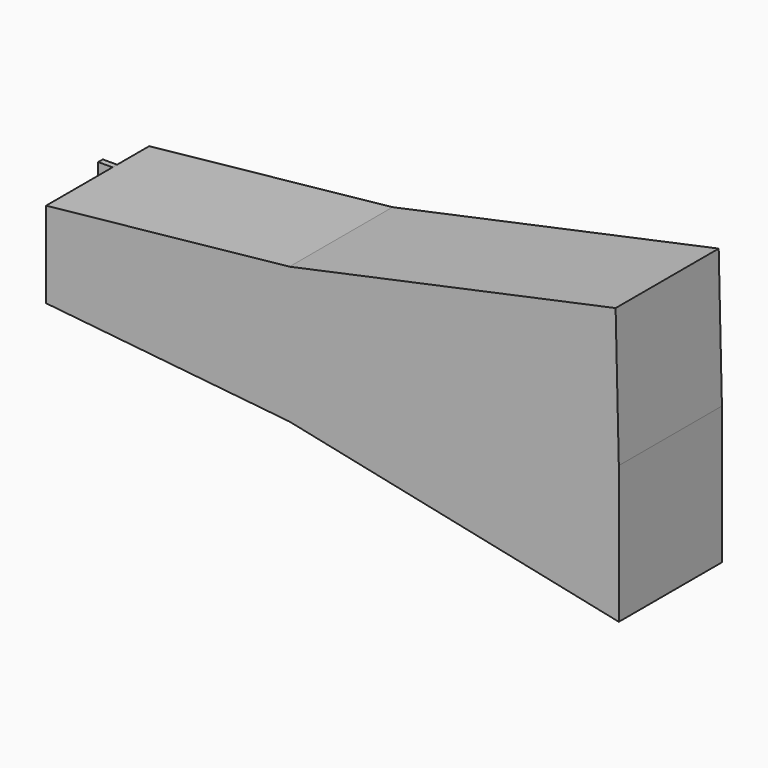
from build123d import *

# Parameters (mm, degrees)
F1_DEPTH = 4
F2_DEPTH = 60
F3_DEPTH = 60
F4_W     = 20
F4_H     = 60
F5_DEPTH = 4


with BuildPart() as f1:
    # F0 (on Front) → F1 (new body, symmetric)
    with BuildSketch(Plane.XZ):
        with BuildLine():
            Line((0, 0.0707786067), (0, 0))
            Line((0, 0), (0, -60))
            Line((0, -60), (340, -94.9689))
            Line((340, -94.9689), (800, -191.6132215183))
            Line((800, -191.6132215183), (800, 0.5707784817))
            Line((800, 0.5707784817), (0.5003536116, 0.5707784817))
            ThreePointArc((0.5003536116, 0.5707784817), (0.1465716521, 0.4244569958), (0, 0.0707786067))
        make_face()
        with BuildLine():
            Line((0, 60), (0, 0.0707786067))
            ThreePointArc((0, 0.0707786067), (0.1465716521, 0.4244569958), (0.5003536116, 0.5707784817))
            Line((0.5003536116, 0.5707784817), (800, 0.5707784817))
            Line((800, 0.5707784817), (795.5003536116, 192.755164923))
            Line((795.5003536116, 192.755164923), (340, 95.539677511))
            Line((340, 95.539677511), (0, 60))
        make_face()
    extrude(amount=F1_DEPTH, both=True)

    # F0 (on Front) → F2 (join, symmetric)
    with BuildSketch(Plane.XZ):
        with BuildLine():
            Line((0, 0.0707786067), (0, 0))
            Line((0, 0), (0, -60))
            Line((0, -60), (340, -94.9689))
            Line((340, -94.9689), (800, -191.6132215183))
            Line((800, -191.6132215183), (800, 0.5707784817))
            Line((800, 0.5707784817), (0.5003536116, 0.5707784817))
            ThreePointArc((0.5003536116, 0.5707784817), (0.1465716521, 0.4244569958), (0, 0.0707786067))
        make_face()
        with BuildLine():
            Line((0, 60), (0, 0.0707786067))
            ThreePointArc((0, 0.0707786067), (0.1465716521, 0.4244569958), (0.5003536116, 0.5707784817))
            Line((0.5003536116, 0.5707784817), (800, 0.5707784817))
            Line((800, 0.5707784817), (795.5003536116, 192.755164923))
            Line((795.5003536116, 192.755164923), (340, 95.539677511))
            Line((340, 95.539677511), (0, 60))
        make_face()
    extrude(amount=F2_DEPTH, both=True)

    # F3 (add, symmetric): a face of the model
    f3_faces = [f1.faces().sort_by_distance(p)[0] for p in [
        (477.468484718, -60, 0.2503652073),
    ]]
    extrude(f3_faces, amount=F3_DEPTH, both=True)

    # F4 (on Front) → F5 (join, symmetric)
    with BuildSketch(Plane.XZ):
        with Locations((-10, -30)):
            Rectangle(F4_W, F4_H)
        with Locations((-10, 30)):
            Rectangle(F4_W, F4_H)
    extrude(amount=F5_DEPTH, both=True)


solid = f1.part
